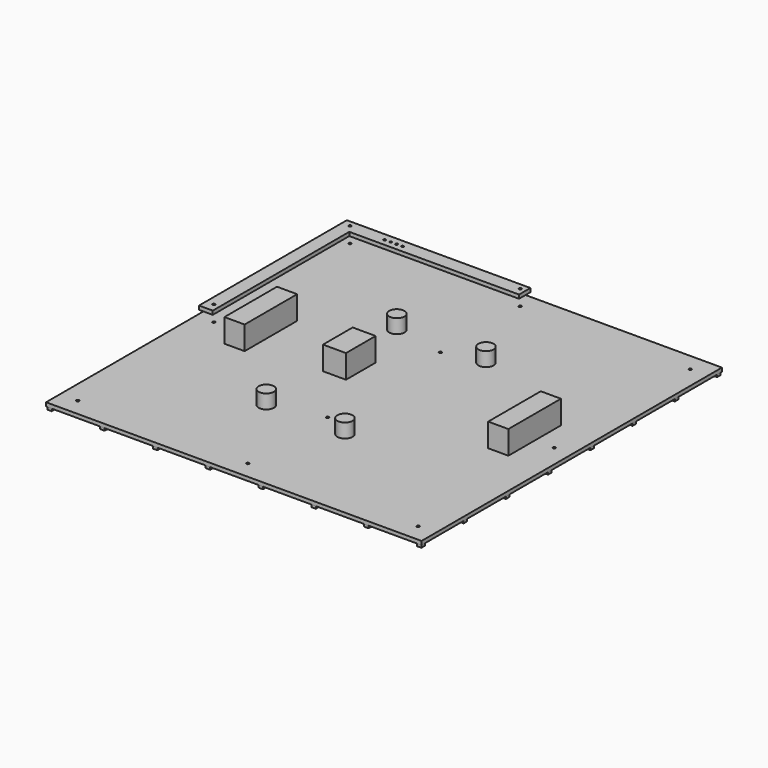
from build123d import *

# Parameters (mm, degrees)
SKETCH_W                     = 160
SKETCH_H                     = 160
SKETCH_R                     = 0.575
PAD_DEPTH                    = 1.6
SKETCH001_W                  = 8.6
SKETCH001_H                  = 28
SKETCH001_W_2                = 9.8
SKETCH001_H_2                = 15.8
PAD001_DEPTH                 = 10
SKETCH002_R                  = 3.25
PAD002_DEPTH                 = 6
SKETCH003_W                  = 1.9
SKETCH003_H                  = 1.9
PAD003_DEPTH                 = 1.2
SKETCH003_LINEARPATTERN_2_W  = 1.9
SKETCH003_LINEARPATTERN_2_H  = 1.9
PAD003_LINEARPATTERN_2_DEPTH = 1.2
SKETCH003_LINEARPATTERN_3_W  = 1.9
SKETCH003_LINEARPATTERN_3_H  = 1.9
PAD003_LINEARPATTERN_3_DEPTH = 1.2
SKETCH003_LINEARPATTERN_4_W  = 1.9
SKETCH003_LINEARPATTERN_4_H  = 1.9
PAD003_LINEARPATTERN_4_DEPTH = 1.2
SKETCH003_LINEARPATTERN_5_W  = 1.9
SKETCH003_LINEARPATTERN_5_H  = 1.9
PAD003_LINEARPATTERN_5_DEPTH = 1.2
SKETCH003_LINEARPATTERN_6_W  = 1.9
SKETCH003_LINEARPATTERN_6_H  = 1.9
PAD003_LINEARPATTERN_6_DEPTH = 1.2
SKETCH003_LINEARPATTERN_7_W  = 1.9
SKETCH003_LINEARPATTERN_7_H  = 1.9
PAD003_LINEARPATTERN_7_DEPTH = 1.2
SKETCH003_LINEARPATTERN_8_W  = 1.9
SKETCH003_LINEARPATTERN_8_H  = 1.9
PAD003_LINEARPATTERN_8_DEPTH = 1.2
LINEARPATTERN001_COUNT       = 8
LINEARPATTERN001_PITCH       = 22.5
SKETCH004_R                  = 0.5
SKETCH004_R_2                = 0.575
PAD004_DEPTH                 = 1.6


with BuildPart() as led_panel:
    # Sketch (on Sketch) → Pad (new body)
    with BuildSketch(Plane.XY):
        Rectangle(SKETCH_W, SKETCH_H)
        with Locations((-72.5, 72.5)):
            Circle(SKETCH_R, mode=Mode.SUBTRACT)
        with Locations((0, 72.5)):
            Circle(SKETCH_R, mode=Mode.SUBTRACT)
        with Locations((72.5, 72.5)):
            Circle(SKETCH_R, mode=Mode.SUBTRACT)
        with Locations((72.5, 0)):
            Circle(SKETCH_R, mode=Mode.SUBTRACT)
        with Locations((72.5, -72.5)):
            Circle(SKETCH_R, mode=Mode.SUBTRACT)
        with Locations((0, -72.5)):
            Circle(SKETCH_R, mode=Mode.SUBTRACT)
        with Locations((-72.5, -72.5)):
            Circle(SKETCH_R, mode=Mode.SUBTRACT)
        with Locations((-72.5, 0)):
            Circle(SKETCH_R, mode=Mode.SUBTRACT)
        with Locations((0, 30)):
            Circle(SKETCH_R, mode=Mode.SUBTRACT)
        with Locations((0, -30)):
            Circle(SKETCH_R, mode=Mode.SUBTRACT)
    extrude(amount=-PAD_DEPTH)

    # Sketch001 → Pad001 (join)
    with BuildSketch(Plane.XY):
        with Locations((59.9, 0)):
            Rectangle(SKETCH001_W, SKETCH001_H)
        with Locations((-55.7, 4)):
            Rectangle(SKETCH001_W, SKETCH001_H)
        with Locations((-17.1, 2.9)):
            Rectangle(SKETCH001_W_2, SKETCH001_H_2)
    extrude(amount=PAD001_DEPTH)

    # Sketch002 (on Face4 of Pad001) → Pad002 (join)
    with BuildSketch(Plane.XY):
        with Locations((16.468304, 33.730961)):
            Circle(SKETCH002_R)
        with Locations((-21.531696, 33.730961)):
            Circle(SKETCH002_R)
        with Locations((-21.531696, -35.768452)):
            Circle(SKETCH002_R)
        with Locations((11.968304, -35.768452)):
            Circle(SKETCH002_R)
    extrude(amount=PAD002_DEPTH)

    # Sketch003 (on Face5 of Pad002) → Pad003 (join)
    with BuildSketch(Plane(origin=(0, 0, -1.6), x_dir=(1, 0, 0), z_dir=(0, 0, -1))):
        with Locations((-78.75, 78.75)):
            Rectangle(SKETCH003_W, SKETCH003_H)
    pad003 = extrude(amount=PAD003_DEPTH)

    # Sketch003 LinearPattern 2 → Pad003 LinearPattern 2 (add)
    with BuildSketch(Plane(origin=(22.5, 0, -1.6), x_dir=(1, 0, 0), z_dir=(0, 0, -1))):
        with Locations((-78.75, 78.75)):
            Rectangle(SKETCH003_LINEARPATTERN_2_W, SKETCH003_LINEARPATTERN_2_H)
    pad003_linearpattern_2 = extrude(amount=PAD003_LINEARPATTERN_2_DEPTH)

    # Sketch003 LinearPattern 3 → Pad003 LinearPattern 3 (add)
    with BuildSketch(Plane(origin=(45, 0, -1.6), x_dir=(1, 0, 0), z_dir=(0, 0, -1))):
        with Locations((-78.75, 78.75)):
            Rectangle(SKETCH003_LINEARPATTERN_3_W, SKETCH003_LINEARPATTERN_3_H)
    pad003_linearpattern_3 = extrude(amount=PAD003_LINEARPATTERN_3_DEPTH)

    # Sketch003 LinearPattern 4 → Pad003 LinearPattern 4 (add)
    with BuildSketch(Plane(origin=(67.5, 0, -1.6), x_dir=(1, 0, 0), z_dir=(0, 0, -1))):
        with Locations((-78.75, 78.75)):
            Rectangle(SKETCH003_LINEARPATTERN_4_W, SKETCH003_LINEARPATTERN_4_H)
    pad003_linearpattern_4 = extrude(amount=PAD003_LINEARPATTERN_4_DEPTH)

    # Sketch003 LinearPattern 5 → Pad003 LinearPattern 5 (add)
    with BuildSketch(Plane(origin=(90, 0, -1.6), x_dir=(1, 0, 0), z_dir=(0, 0, -1))):
        with Locations((-78.75, 78.75)):
            Rectangle(SKETCH003_LINEARPATTERN_5_W, SKETCH003_LINEARPATTERN_5_H)
    pad003_linearpattern_5 = extrude(amount=PAD003_LINEARPATTERN_5_DEPTH)

    # Sketch003 LinearPattern 6 → Pad003 LinearPattern 6 (add)
    with BuildSketch(Plane(origin=(112.5, 0, -1.6), x_dir=(1, 0, 0), z_dir=(0, 0, -1))):
        with Locations((-78.75, 78.75)):
            Rectangle(SKETCH003_LINEARPATTERN_6_W, SKETCH003_LINEARPATTERN_6_H)
    pad003_linearpattern_6 = extrude(amount=PAD003_LINEARPATTERN_6_DEPTH)

    # Sketch003 LinearPattern 7 → Pad003 LinearPattern 7 (add)
    with BuildSketch(Plane(origin=(135, 0, -1.6), x_dir=(1, 0, 0), z_dir=(0, 0, -1))):
        with Locations((-78.75, 78.75)):
            Rectangle(SKETCH003_LINEARPATTERN_7_W, SKETCH003_LINEARPATTERN_7_H)
    pad003_linearpattern_7 = extrude(amount=PAD003_LINEARPATTERN_7_DEPTH)

    # Sketch003 LinearPattern 8 → Pad003 LinearPattern 8 (add)
    with BuildSketch(Plane(origin=(157.5, 0, -1.6), x_dir=(1, 0, 0), z_dir=(0, 0, -1))):
        with Locations((-78.75, 78.75)):
            Rectangle(SKETCH003_LINEARPATTERN_8_W, SKETCH003_LINEARPATTERN_8_H)
    pad003_linearpattern_8 = extrude(amount=PAD003_LINEARPATTERN_8_DEPTH)

    # LinearPattern001: Pad003, Pad003 LinearPattern 2, Pad003 LinearPattern 3, Pad003 LinearPattern 4, Pad003 LinearPattern 5, Pad003 LinearPattern 6, Pad003 LinearPattern 7, Pad003 LinearPattern 8 ×8
    with Locations(*[(0, i * LINEARPATTERN001_PITCH, 0) for i in range(1, LINEARPATTERN001_COUNT)]):
        add(pad003)
        add(pad003_linearpattern_2)
        add(pad003_linearpattern_3)
        add(pad003_linearpattern_4)
        add(pad003_linearpattern_5)
        add(pad003_linearpattern_6)
        add(pad003_linearpattern_7)
        add(pad003_linearpattern_8)


with BuildPart() as pcb_with_screws:
    # Sketch004 (on DatumPlane) → Pad004 (new body)
    with BuildSketch(Plane.XY.offset(5)):
        Polygon((-75.874924, 75.06604), (2.333036, 75.06604), (2.333036, 69.021439), (-70.016304, 69.021439), (-70.016304, -3.699876), (-75.874924, -3.699876), align=None)
        with Locations((-57.205761, 71.896853)):
            Circle(SKETCH004_R, mode=Mode.SUBTRACT)
        with Locations((-54.665761, 71.896853)):
            Circle(SKETCH004_R, mode=Mode.SUBTRACT)
        with Locations((-52.125761, 71.896853)):
            Circle(SKETCH004_R, mode=Mode.SUBTRACT)
        with Locations((-49.585761, 71.896853)):
            Circle(SKETCH004_R, mode=Mode.SUBTRACT)
        with Locations((-72.5, 72.5)):
            Circle(SKETCH004_R_2, mode=Mode.SUBTRACT)
        with Locations((0, 72.5)):
            Circle(SKETCH004_R_2, mode=Mode.SUBTRACT)
        with Locations((-72.5, 0)):
            Circle(SKETCH004_R_2, mode=Mode.SUBTRACT)
    extrude(amount=PAD004_DEPTH)


solid = Compound([led_panel.part, pcb_with_screws.part])
